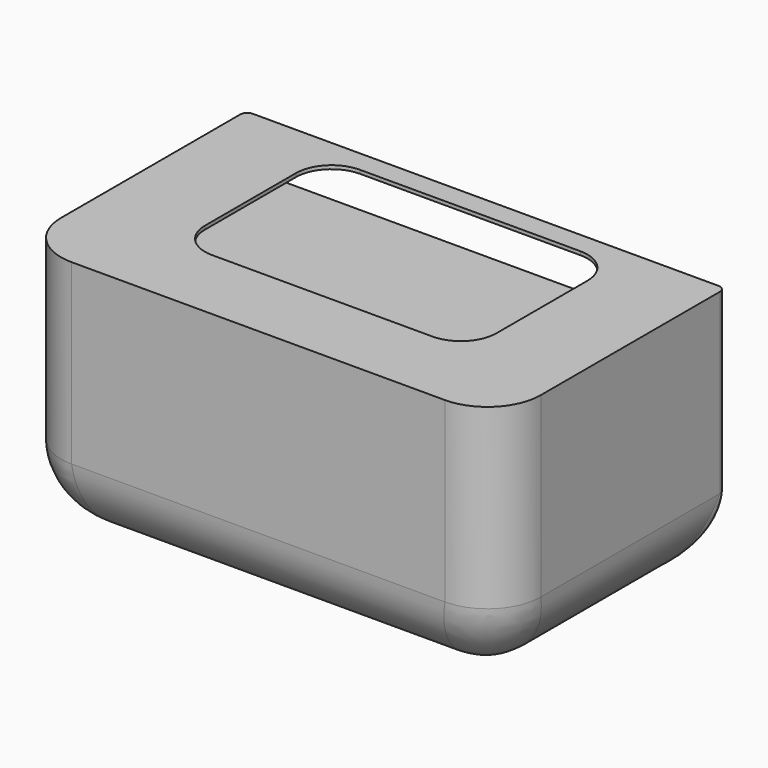
from build123d import *

# Parameters (mm, degrees)
SKETCH002_W     = 135
SKETCH002_H     = 80
PAD_DEPTH       = 70
SKETCH003_W     = 128
SKETCH003_H     = 13
POCKET_DEPTH    = 64
SKETCH001_W     = 82
SKETCH001_H     = 52
POCKET001_DEPTH = 1
FILLET_R        = 10
FILLET001_R     = 2
FILLET002_R     = 15
FILLET003_R     = 20


with BuildPart() as part:
    # Sketch002 → Pad (new body)
    with BuildSketch(Plane.XY):
        with Locations((-0.5, -39.9)):
            Rectangle(SKETCH002_W, SKETCH002_H)
    extrude(amount=-PAD_DEPTH)

    # Sketch003 → Pocket (cut)
    with BuildSketch(Plane(origin=(0, 0.1, 0), x_dir=(-1, 0, 0), z_dir=(0, 1, 0))):
        with Locations((0, -7.5)):
            Rectangle(SKETCH003_W, SKETCH003_H)
    extrude(amount=-POCKET_DEPTH, mode=Mode.SUBTRACT)

    # Sketch001 → Pocket001 (cut)
    with BuildSketch(Plane.XY):
        with Locations((0, -32)):
            Rectangle(SKETCH001_W, SKETCH001_H)
    extrude(amount=-POCKET001_DEPTH, mode=Mode.SUBTRACT)

    # Fillet
    fillet_edges = [part.edges().sort_by_distance(p)[0] for p in [
        (-41, -58, -0.5),
        (41, -58, -0.5),
        (-41, -6, -0.5),
        (41, -6, -0.5),
    ]]
    fillet(fillet_edges, radius=FILLET_R)

    # Fillet001
    fillet001_edges = [part.edges().sort_by_distance(p)[0] for p in [
        (-68, 0.1, -35),
        (67, 0.1, -35),
    ]]
    fillet(fillet001_edges, radius=FILLET001_R)

    # Fillet002
    fillet002_edges = [part.edges().sort_by_distance(p)[0] for p in [
        (67, -79.9, -35),
        (-68, -79.9, -35),
    ]]
    fillet(fillet002_edges, radius=FILLET002_R)

    # Fillet003
    fillet003_edges = [part.edges().sort_by_distance(p)[0] for p in [
        (-0.5, -79.9, -70),
        (-0.5, 0.1, -70),
    ]]
    fillet(fillet003_edges, radius=FILLET003_R)


solid = part.part
